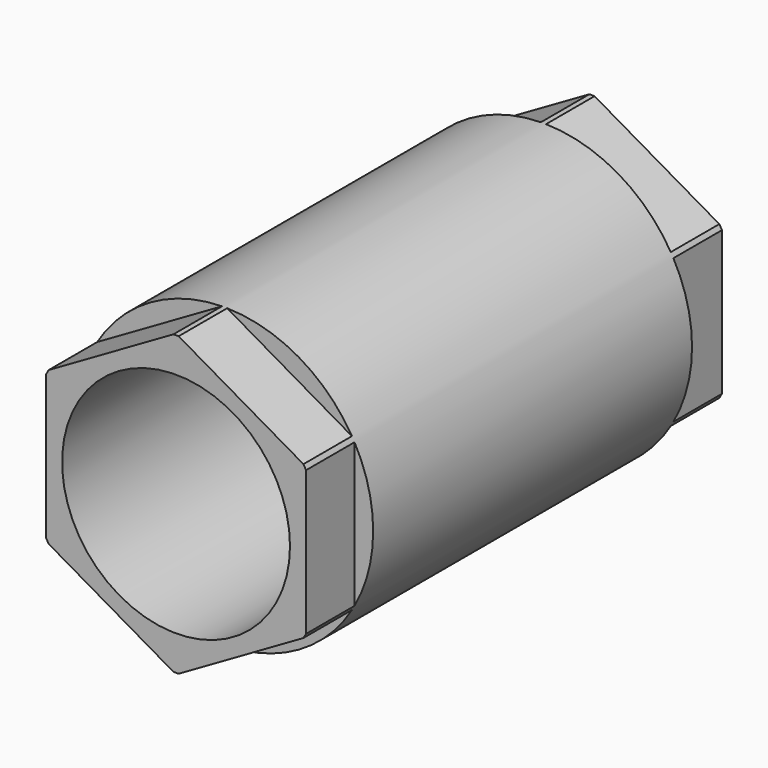
from build123d import *

# Parameters (mm, degrees)
CYLINDER_R          = 21.7805
CYLINDER_DEPTH      = 76.2
CYLINDER_ROLL_ANGLE = 90
SKETCH_R            = 16.7005
POCKET_DEPTH        = 76.2
SKETCH001_R         = 22.225
POCKET001_DEPTH     = 8.89
SKETCH002_R         = 22.225
POCKET002_DEPTH     = 8.89


with BuildPart() as part:
    # Cylinder → Cylinder (new body)
    with BuildSketch(Plane.XY):
        Circle(CYLINDER_R)
    extrude(amount=CYLINDER_DEPTH)


with BuildPart() as part_1:
    # Cylinder roll: moved
    add(part.part.rotate(Axis((0, 0, 0), (1, 0, 0)), CYLINDER_ROLL_ANGLE))


with BuildPart() as part_2:
    # Cylinder placement: moved
    add(part_1.part)

    # Sketch → Pocket (cut)
    with BuildSketch(Plane(origin=(0, 0, 0), x_dir=(1, 0, 0), z_dir=(0, 1, 0))):
        Circle(SKETCH_R)
    extrude(amount=-POCKET_DEPTH, mode=Mode.SUBTRACT)

    # Sketch001 → Pocket001 (cut)
    with BuildSketch(Plane(origin=(0, 0, 0), x_dir=(1, 0, 0), z_dir=(0, 1, 0))):
        Circle(SKETCH001_R)
        Polygon((-19.05, -10.998523), (-19.05, 10.998523), (0, 21.997045), (19.05, 10.998523), (19.05, -10.998523), (0, -21.997045), align=None, mode=Mode.SUBTRACT)
    extrude(amount=-POCKET001_DEPTH, mode=Mode.SUBTRACT)

    # Sketch002 → Pocket002 (cut)
    with BuildSketch(Plane.XZ.offset(76.2)):
        Circle(SKETCH002_R)
        Polygon((-19.05, -10.998523), (-19.05, 10.998523), (0, 21.997045), (19.05, 10.998523), (19.05, -10.998523), (0, -21.997045), align=None, mode=Mode.SUBTRACT)
    extrude(amount=-POCKET002_DEPTH, mode=Mode.SUBTRACT)


solid = part_2.part
